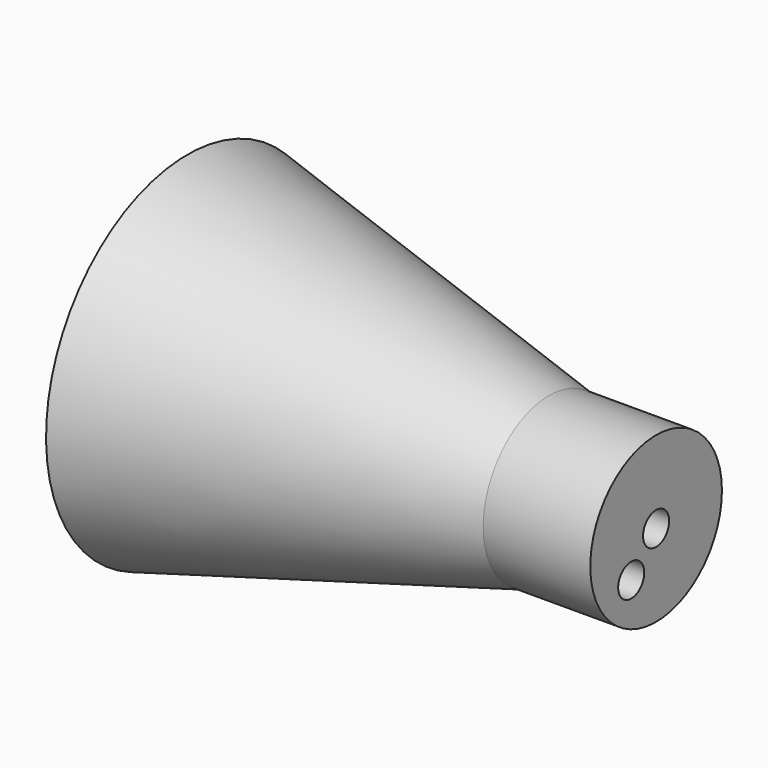
from build123d import *

# Parameters (mm, degrees)
F2_T        = -5
F4_D        = 5
F1_FACE_R   = 12.622695
F1_FACE_R_2 = 2.5
F5_DEPTH    = 16.4385


with BuildPart() as f1:
    # F0 (on Front) → F1 (revolve)
    with BuildSketch(Plane.XZ):
        Polygon((-55.460349, -27.133826), (0, -12.622695), (0, 0), (-55.460349, 0), align=None)
    revolve(axis=Axis((7.454347, 0, 0), (-1, 0, 0)))

    # F2
    f2_openings = [f1.faces().sort_by_distance(p)[0] for p in [
        (-55.460349, 0, 0),
    ]]
    offset(amount=F2_T, openings=f2_openings)

    # F4 (through all)
    with Locations(Plane.YZ):
        with Locations((0, 0), (-4.776739, -5.027231)):
            Hole(F4_D / 2)

    # F1_face (on face) → F5 (join, symmetric)
    with BuildSketch(Plane.YZ):
        Circle(F1_FACE_R)
        Circle(F1_FACE_R_2, mode=Mode.SUBTRACT)
        with Locations((-4.776739, -5.027231)):
            Circle(F1_FACE_R_2, mode=Mode.SUBTRACT)
    extrude(amount=F5_DEPTH, both=True)


solid = f1.part
